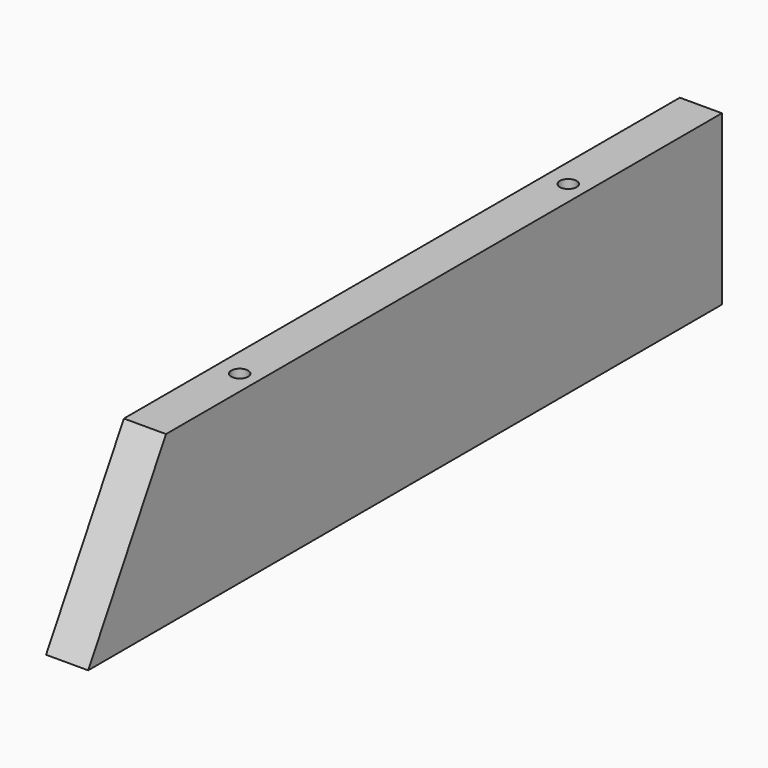
from build123d import *

# Parameters (mm, degrees)
F1_DEPTH       = 20
F5_D           = 8
F5_DEPTH       = 30
F5_TIP         = 2.4034424761
F5_ON_F3_D     = 8
F5_ON_F3_DEPTH = 30
F5_ON_F3_TIP   = 2.4034424761
F5_ON_F4_D     = 8
F5_ON_F4_DEPTH = 30
F5_ON_F4_TIP   = 2.4034424761


with BuildPart() as f1:
    # F0 (on Right) → F1 (new body)
    with BuildSketch(Plane.YZ):
        Polygon((-376.1880215352, 0), (0, 0), (0, 80), (-330, 80), align=None)
    extrude(amount=F1_DEPTH)

    # F5
    with Locations(Plane(origin=(0, 0, 0), x_dir=(1, 0, 0), z_dir=(0, 0, -1))):
        with Locations((11, 325), (11, 130)):
            Hole(F5_D / 2, depth=F5_DEPTH)
            with Locations((0, 0, -(F5_DEPTH + F5_TIP / 2))):  # 118° drill point
                Cone(0, F5_D / 2, F5_TIP, mode=Mode.SUBTRACT)

    # F5 on F3
    with Locations(Plane(origin=(0, 0, 0), x_dir=(-1, 0, 0), z_dir=(0, 1, 0))):
        with Locations((-11, 15), (-11, 65)):
            Hole(F5_ON_F3_D / 2, depth=F5_ON_F3_DEPTH)
            with Locations((0, 0, -(F5_ON_F3_DEPTH + F5_ON_F3_TIP / 2))):  # 118° drill point
                Cone(0, F5_ON_F3_D / 2, F5_ON_F3_TIP, mode=Mode.SUBTRACT)

    # F5 on F4
    with Locations(Plane.XY.offset(80)):
        with Locations((11, -275), (11, -80)):
            Hole(F5_ON_F4_D / 2, depth=F5_ON_F4_DEPTH)
            with Locations((0, 0, -(F5_ON_F4_DEPTH + F5_ON_F4_TIP / 2))):  # 118° drill point
                Cone(0, F5_ON_F4_D / 2, F5_ON_F4_TIP, mode=Mode.SUBTRACT)


solid = f1.part
